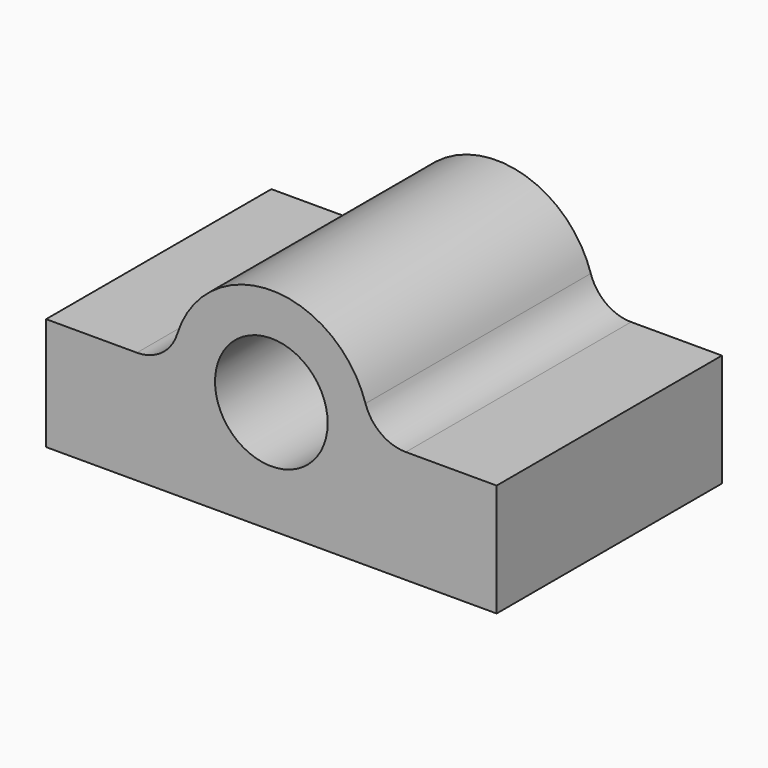
from build123d import *

# Parameters (mm, degrees)
F1_DEPTH = 127
F2_R     = 6.35
F3_DEPTH = 31.75


with BuildPart() as f1:
    # F0 (on Front) → F1 (new body)
    with BuildSketch(Plane.XZ):
        with BuildLine():
            ThreePointArc((60.634122, 0), (49.361852, 3.692968), (42.459989, 13.34006))
            ThreePointArc((42.459989, 13.34006), (0, 44.506268), (-42.459989, 13.34006))
            ThreePointArc((-42.459989, 13.34006), (-49.361852, 3.692968), (-60.634122, 0))
            Line((-60.634122, 0), (-101.6, 0))
            Line((-101.6, 0), (-101.6, -50.8))
            Line((-101.6, -50.8), (101.6, -50.8))
            Line((101.6, -50.8), (101.6, 0))
            Line((101.6, 0), (60.634122, 0))
        make_face()
        with BuildLine():
            ThreePointArc((-25.4, 0), (0, 25.4), (25.4, 0))
            ThreePointArc((25.4, 0), (0, -25.4), (-25.4, 0))
        make_face(mode=Mode.SUBTRACT)
    extrude(amount=F1_DEPTH)

    # F2 (on face) → F3 (cut)
    with BuildSketch(Plane(origin=(0, 0, -50.8), x_dir=(1, 0, 0), z_dir=(0, 0, -1))):
        with Locations((-76.2, 101.6)):
            Circle(F2_R)
        with Locations((-76.2, 25.4)):
            Circle(F2_R)
        with Locations((76.2, 25.4)):
            Circle(F2_R)
        with Locations((76.2, 101.6)):
            Circle(F2_R)
    extrude(amount=-F3_DEPTH, mode=Mode.SUBTRACT)


solid = f1.part
